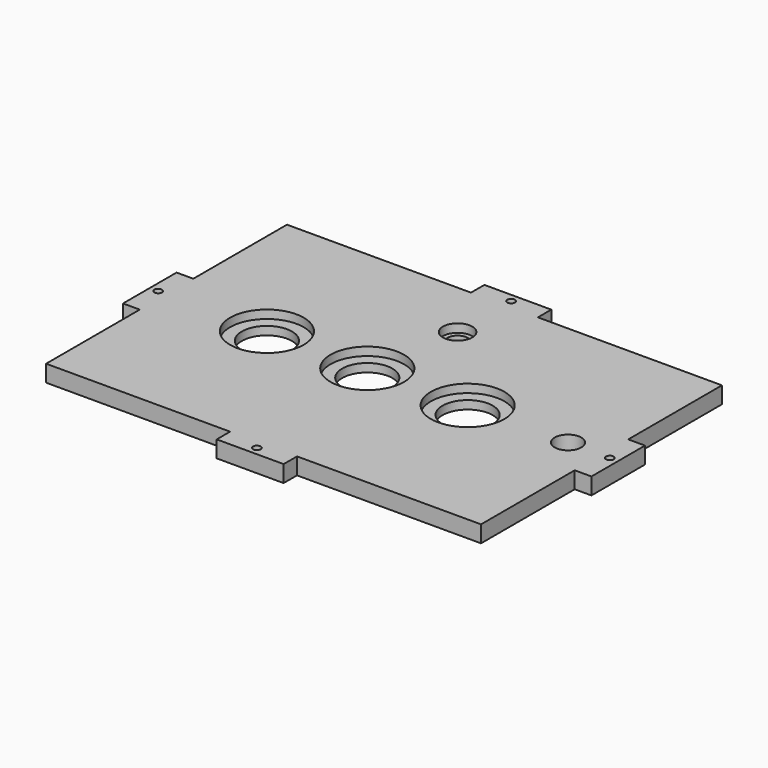
from build123d import *

# Parameters (mm, degrees)
F0_R     = 1.4605
F0_R_2   = 13.97
F0_R_3   = 5.08
F0_R_4   = 5.588
F1_DEPTH = 6.35
F0_R_5   = 9.525
F2_DEPTH = 3.175
F0_R_6   = 3.81
F3_DEPTH = 3.175


with BuildPart() as f1:
    # F0 (on Top) → F1 (new body)
    with BuildSketch(Plane.XY):
        Polygon((-12.7, -63.5), (12.7, -63.5), (12.7, -57.149999), (82.549999, -57.149999), (82.549999, -12.7), (88.9, -12.7), (88.9, 12.7), (82.549999, 12.7), (82.549999, 57.149999), (12.7, 57.149999), (12.7, 63.5), (-12.7, 63.5), (-12.7, 57.149999), (-82.549999, 57.149999), (-82.549999, 12.7), (-88.9, 12.7), (-88.9, -12.7), (-82.549999, -12.7), (-82.549999, -57.149999), (-12.7, -57.149999), align=None)
        with Locations((0, -60.324999)):
            Circle(F0_R, mode=Mode.SUBTRACT)
        with Locations((-85.724999, 0)):
            Circle(F0_R, mode=Mode.SUBTRACT)
        with Locations((-44.45, 0)):
            Circle(F0_R_2, mode=Mode.SUBTRACT)
        with Locations((-6.35, 0)):
            Circle(F0_R_2, mode=Mode.SUBTRACT)
        with Locations((31.75, 0)):
            Circle(F0_R_2, mode=Mode.SUBTRACT)
        with Locations((69.849998, 0)):
            Circle(F0_R_3, mode=Mode.SUBTRACT)
        with Locations((85.724999, 0)):
            Circle(F0_R, mode=Mode.SUBTRACT)
        with Locations((0, 34.924999)):
            Circle(F0_R_4, mode=Mode.SUBTRACT)
        with Locations((0, 60.324999)):
            Circle(F0_R, mode=Mode.SUBTRACT)
    extrude(amount=F1_DEPTH)

    # F0 (on Top) → F2 (join)
    with BuildSketch(Plane.XY):
        with Locations((-44.45, 0)):
            Circle(F0_R_2)
        with Locations((-44.45, 0)):
            Circle(F0_R_5, mode=Mode.SUBTRACT)
        with Locations((-6.35, 0)):
            Circle(F0_R_2)
        with Locations((-6.35, 0)):
            Circle(F0_R_5, mode=Mode.SUBTRACT)
        with Locations((31.75, 0)):
            Circle(F0_R_2)
        with Locations((31.75, 0)):
            Circle(F0_R_5, mode=Mode.SUBTRACT)
    extrude(amount=F2_DEPTH)

    # F0 (on Top) → F3 (join)
    with BuildSketch(Plane.XY):
        with Locations((0, 34.924999)):
            Circle(F0_R_4)
        with Locations((0, 34.924999)):
            Circle(F0_R_6, mode=Mode.SUBTRACT)
    extrude(amount=F3_DEPTH)


solid = f1.part
